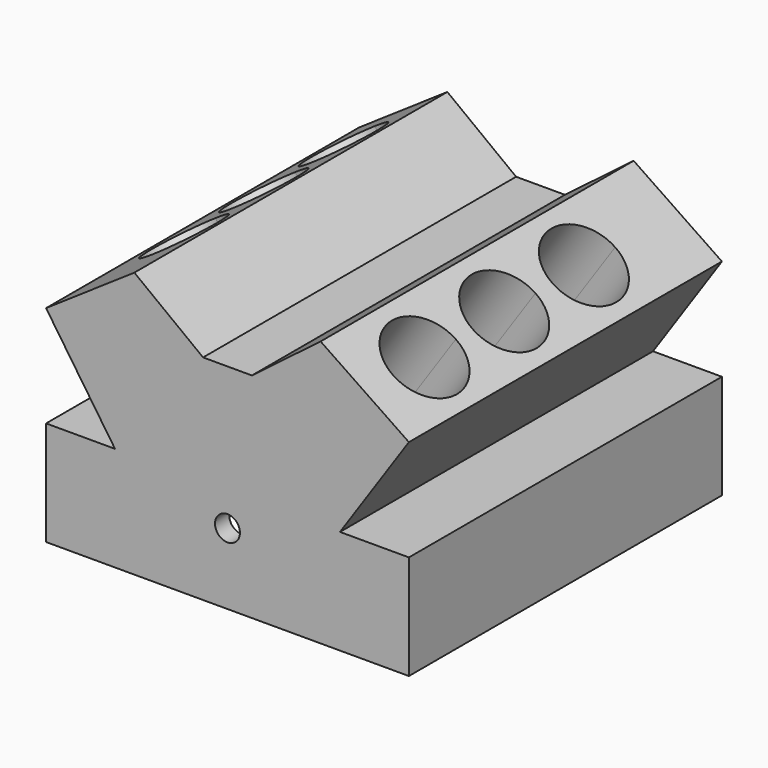
from build123d import *

# Parameters (mm, degrees)
F1_DEPTH = 55
F2_T     = -2.5
F3_DEPTH = 55
F5_DEPTH = 25
F7_DEPTH = 25
F8_R     = 1.75
F9_DEPTH = 60


with BuildPart() as f1:
    # F0 (on Front) → F1 (new body)
    with BuildSketch(Plane.XZ):
        Polygon((0, 30.0219481358), (0, 0), (25.5, 0), (25.5, 14.6816842611), (15.8114124709, 14.6816842611), (3.4315507477, 30.0219481358), align=None)
        Polygon((-25.5, 0), (0, 0), (0, 30.0219481358), (-3.4315507477, 30.0219481358), (-15.8114124709, 14.6816842611), (-25.5, 14.6816842611), align=None)
    extrude(amount=F1_DEPTH)

    # F2
    f2_openings = [f1.faces().sort_by_distance(p)[0] for p in [
        (0, -27.5, 0),
    ]]
    offset(amount=F2_T, openings=f2_openings, kind=Kind.INTERSECTION)

    # F0 (on Front) → F3 (join)
    with BuildSketch(Plane.XZ):
        Polygon((13.0917496571, 37.3736836002), (3.4315507477, 30.0219481358), (15.8114124709, 14.6816842611), (25.5, 28.9454380277), align=None)
        Polygon((-15.8114124709, 14.6816842611), (-3.4315507477, 30.0219481358), (-13.0917496571, 37.3736836002), (-25.5, 28.9454380277), align=None)
    extrude(amount=F3_DEPTH)

    # F4 (on face) → F5 (cut)
    with BuildSketch(Plane(origin=(21.5044814121, 0, 31.6593752), x_dir=(0.8272166895, 0, -0.5618830382), z_dir=(0.5618830382, 0, 0.8272166895))):
        with BuildLine():
            ThreePointArc((-2.6699250771, -39), (-8.1699250771, -44.5), (-2.6699250771, -50))
            Line((-2.6699250771, -50), (-2.6699250771, -39))
        make_face()
        with BuildLine():
            Line((-2.6699250771, -39), (-2.6699250771, -50))
            ThreePointArc((-2.6699250771, -50), (1.2191622194, -48.3890872965), (2.8300749229, -44.5))
            ThreePointArc((2.8300749229, -44.5), (1.2191622194, -40.6109127035), (-2.6699250771, -39))
        make_face()
        with BuildLine():
            ThreePointArc((-2.6699250771, -25), (-8.1699250771, -30.5), (-2.6699250771, -36))
            Line((-2.6699250771, -36), (-2.6699250771, -25))
        make_face()
        with BuildLine():
            Line((-2.6699250771, -25), (-2.6699250771, -36))
            ThreePointArc((-2.6699250771, -36), (1.2191622194, -34.3890872965), (2.8300749229, -30.5))
            ThreePointArc((2.8300749229, -30.5), (1.2191622194, -26.6109127035), (-2.6699250771, -25))
        make_face()
        with BuildLine():
            Line((-2.6699250771, -22), (-2.6699250771, -11))
            ThreePointArc((-2.6699250771, -11), (-8.1699250771, -16.5), (-2.6699250771, -22))
        make_face()
        with BuildLine():
            ThreePointArc((2.8300749229, -16.5), (1.2191622194, -12.6109127035), (-2.6699250771, -11))
            Line((-2.6699250771, -11), (-2.6699250771, -22))
            ThreePointArc((-2.6699250771, -22), (1.2191622194, -20.3890872965), (2.8300749229, -16.5))
        make_face()
    extrude(amount=-F5_DEPTH, mode=Mode.SUBTRACT)

    # F6 (on face) → F7 (cut)
    with BuildSketch(Plane(origin=(-21.5044814121, 0, 31.6593752), x_dir=(0.8272166895, 0, 0.5618830382), z_dir=(-0.5618830382, 0, 0.8272166895))):
        with BuildLine():
            ThreePointArc((8.1699250771, -10.5), (6.5590123736, -6.6109127035), (2.6699250771, -5))
            Line((2.6699250771, -5), (2.6699250771, -16))
            ThreePointArc((2.6699250771, -16), (6.5590123736, -14.3890872965), (8.1699250771, -10.5))
        make_face()
        with BuildLine():
            Line((2.6699250771, -16), (2.6699250771, -5))
            ThreePointArc((2.6699250771, -5), (-2.8300749229, -10.5), (2.6699250771, -16))
        make_face()
        with BuildLine():
            ThreePointArc((8.1699250771, -24.5), (6.5590123736, -20.6109127035), (2.6699250771, -19))
            Line((2.6699250771, -19), (2.6699250771, -30))
            ThreePointArc((2.6699250771, -30), (6.5590123736, -28.3890872965), (8.1699250771, -24.5))
        make_face()
        with BuildLine():
            Line((2.6699250771, -30), (2.6699250771, -19))
            ThreePointArc((2.6699250771, -19), (-2.8300749229, -24.5), (2.6699250771, -30))
        make_face()
        with BuildLine():
            Line((2.6699250771, -33), (2.6699250771, -44))
            ThreePointArc((2.6699250771, -44), (6.5590123736, -42.3890872965), (8.1699250771, -38.5))
            ThreePointArc((8.1699250771, -38.5), (6.5590123736, -34.6109127035), (2.6699250771, -33))
        make_face()
        with BuildLine():
            ThreePointArc((2.6699250771, -33), (-2.8300749229, -38.5), (2.6699250771, -44))
            Line((2.6699250771, -44), (2.6699250771, -33))
        make_face()
    extrude(amount=-F7_DEPTH, mode=Mode.SUBTRACT)

    # F8 (on face) → F9 (cut)
    with BuildSketch(Plane.XZ.offset(55)):
        with Locations((0, 10)):
            Circle(F8_R)
    extrude(amount=-F9_DEPTH, mode=Mode.SUBTRACT)


solid = f1.part
